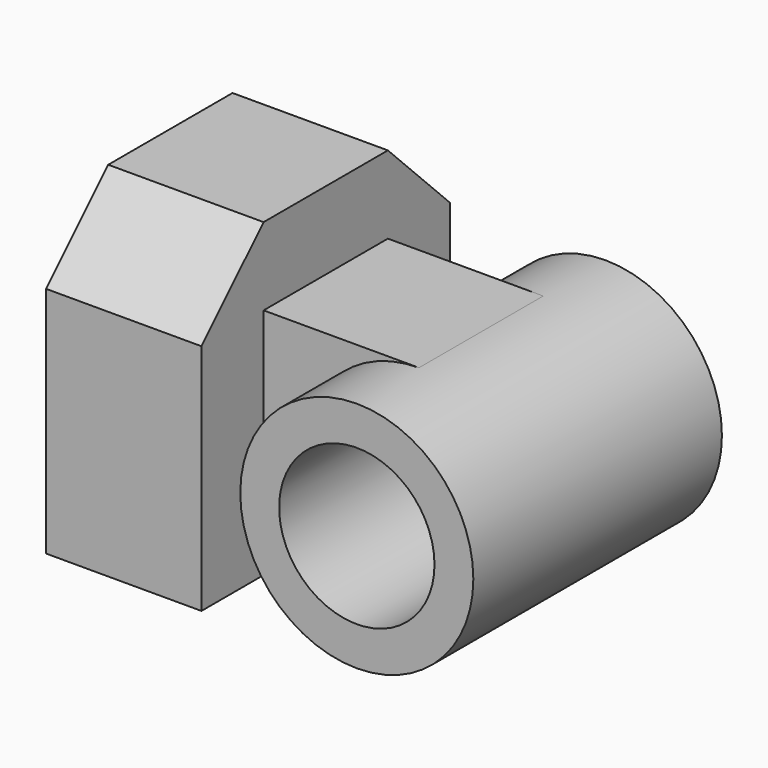
from build123d import *

# Parameters (mm, degrees)
F1_DEPTH = 12.7
F0_R     = 6.35
F2_DEPTH = 6.35
F4_DEPTH = 12.701


with BuildPart() as f1:
    # F0 (on Front) → F1 (new body, symmetric)
    with BuildSketch(Plane.XZ):
        Polygon((-12.7, 25.4), (-12.7, 0), (0, 0), (0, 19.05), (0, 25.4), align=None)
    extrude(amount=F1_DEPTH, both=True)



with BuildPart() as f1b:
    # F0 (on Front) → F1, piece 2 (new body, symmetric)
    with BuildSketch(Plane.XZ):
        with BuildLine():
            ThreePointArc((12.7, 19.05), (3.175, 9.525), (12.7, 0))
            ThreePointArc((12.7, 0), (19.4351920908, 2.7898079092), (22.225, 9.525))
            ThreePointArc((22.225, 9.525), (19.4351920908, 16.2601920908), (12.7, 19.05))
        make_face()
        with Locations((12.7, 9.525)):
            Circle(F0_R, mode=Mode.SUBTRACT)
    extrude(amount=F1_DEPTH, both=True)


with BuildPart() as f1_1:
    add(f1.part)

    add(f1b.part)  # F2 merges F1b
    # F0 (on Front) → F2 (join, symmetric)
    with BuildSketch(Plane.XZ):
        with BuildLine():
            Line((0, 19.05), (0, 0))
            Line((0, 0), (12.7, 0))
            ThreePointArc((12.7, 0), (3.175, 9.525), (12.7, 19.05))
            Line((12.7, 19.05), (0, 19.05))
        make_face()
    extrude(amount=F2_DEPTH, both=True)

    # F3 (on face) → F4 (cut, through all)
    with BuildSketch(Plane.YZ):
        Polygon((-12.7, 19.05), (-6.35, 25.4), (-12.7, 25.4), align=None)
        Polygon((12.7, 25.4), (6.35, 25.4), (12.7, 19.05), align=None)
    extrude(amount=-F4_DEPTH, mode=Mode.SUBTRACT)


solid = f1_1.part
